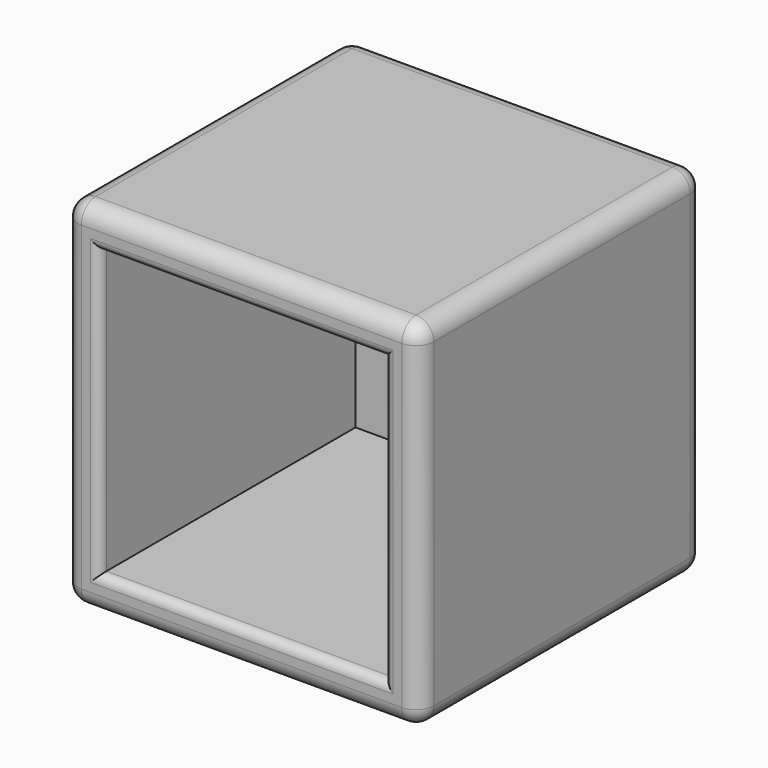
from build123d import *

# Parameters (mm, degrees)
F0_W     = 20
F0_H     = 20
F1_DEPTH = 10
F2_T     = -2
F3_R     = 1
F4_R     = 0.5


with BuildPart() as f1:
    # F0 (on Front) → F1 (new body, symmetric)
    with BuildSketch(Plane.XZ):
        Rectangle(F0_W, F0_H)
    extrude(amount=F1_DEPTH, both=True)

    # F2
    f2_openings = [f1.faces().sort_by_distance(p)[0] for p in [
        (0, -10, 0),
    ]]
    offset(amount=F2_T, openings=f2_openings)

    # F3
    f3_edges = [f1.edges().sort_by_distance(p)[0] for p in [
        (0, -10, -10),
        (10, 10, 0),
        (10, 0, 10),
        (10, -10, 0),
        (10, 0, -10),
        (-10, 0, -10),
        (0, 10, -10),
        (-10, -10, 0),
        (-10, 0, 10),
        (-10, 10, 0),
        (0, 10, 10),
        (0, -10, 10),
    ]]
    fillet(f3_edges, radius=F3_R)

    # F4
    f4_edges = [f1.edges().sort_by_distance(p)[0] for p in [
        (-8, -10, 0),
        (0, -10, -8),
        (8, -10, 0),
        (0, -10, -9),
        (-9, -10, 0),
        (9, -10, 0),
        (0, -10, 9),
        (0, -10, 8),
    ]]
    fillet(f4_edges, radius=F4_R)


solid = f1.part
